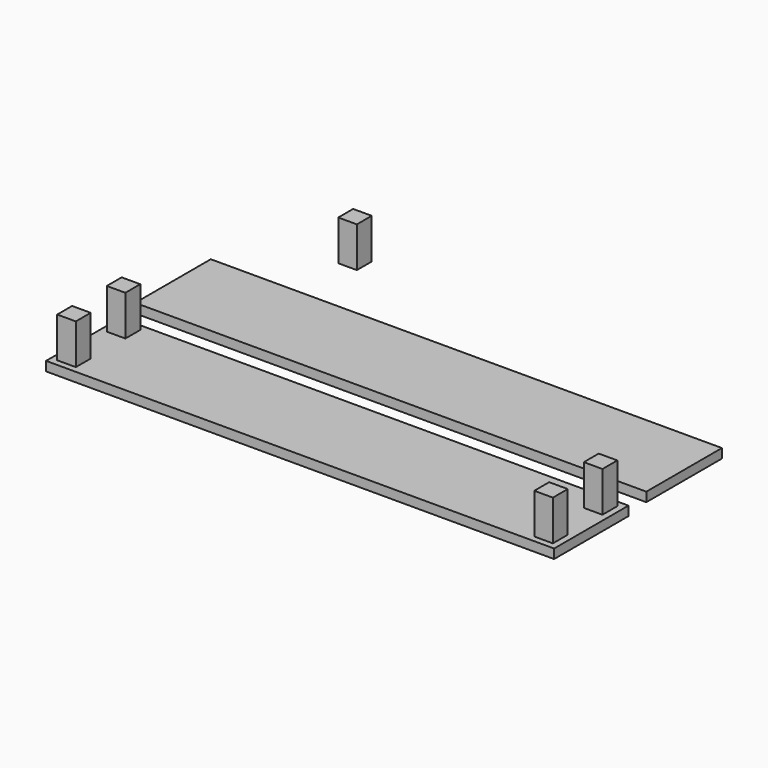
from build123d import *

# Parameters (mm, degrees)
F0_W     = 165
F0_H     = 30.5
F2_DEPTH = 3
F1_W     = 6
F1_H     = 6
F3_DEPTH = 13
F4_W     = 164
F4_H     = 30
F4_W_2   = 6
F4_H_2   = 6
F5_DEPTH = 3
F6_DEPTH = 16


with BuildPart() as f2:
    # F0 (on Top) → F2 (new body)
    with BuildSketch(Plane.XY):
        with Locations((-2.576933, -2.968113)):
            Rectangle(F0_W, F0_H)
    extrude(amount=F2_DEPTH)


with BuildPart() as f3:
    # F1 (on Top) → F3 (new body)
    with BuildSketch(Plane.XY):
        with Locations((-59.204874, 38.1338)):
            Rectangle(F1_W, F1_H)
    extrude(amount=F3_DEPTH)


with BuildPart() as f5:
    # F4 (on Top) → F5 (new body)
    with BuildSketch(Plane.XY):
        with Locations((-0.836897, -41.978834)):
            Rectangle(F4_W, F4_H)
        with Locations((-77.836897, -51.978834)):
            Rectangle(F4_W_2, F4_H_2, mode=Mode.SUBTRACT)
        with Locations((76.163103, -51.978834)):
            Rectangle(F4_W_2, F4_H_2, mode=Mode.SUBTRACT)
        with Locations((-77.836897, -31.978834)):
            Rectangle(F4_W_2, F4_H_2, mode=Mode.SUBTRACT)
        with Locations((76.163103, -31.978834)):
            Rectangle(F4_W_2, F4_H_2, mode=Mode.SUBTRACT)
    extrude(amount=F5_DEPTH)

    # F4 (on Top) → F6 (join)
    with BuildSketch(Plane.XY):
        with Locations((-77.836897, -31.978834)):
            Rectangle(F4_W_2, F4_H_2)
        with Locations((-77.836897, -51.978834)):
            Rectangle(F4_W_2, F4_H_2)
        with Locations((76.163103, -31.978834)):
            Rectangle(F4_W_2, F4_H_2)
        with Locations((76.163103, -51.978834)):
            Rectangle(F4_W_2, F4_H_2)
    extrude(amount=F6_DEPTH)


solid = Compound([f2.part, f3.part, f5.part])
